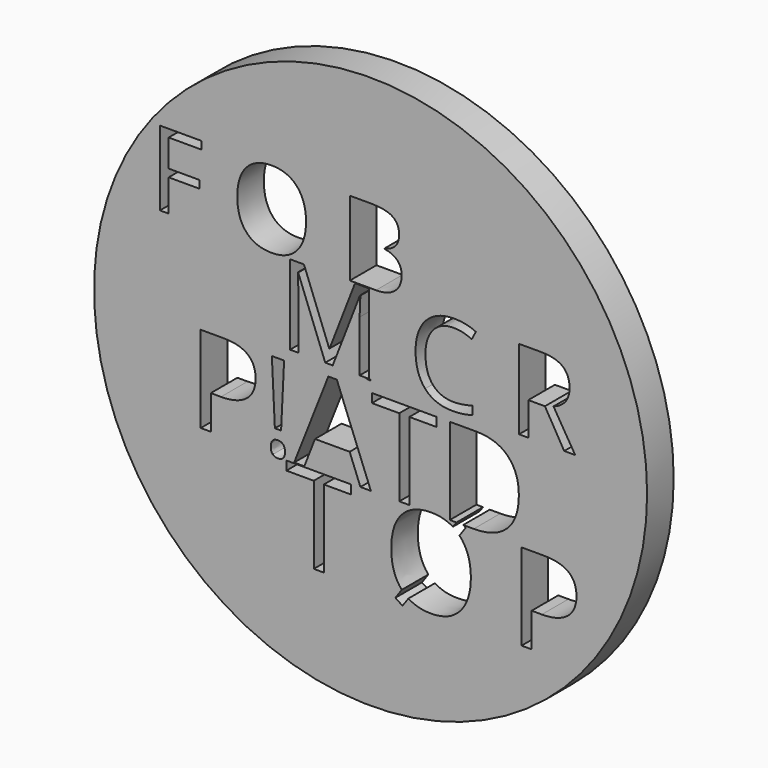
from build123d import *

# Parameters (mm, degrees)
F0_R     = 54.9675707309
F1_DEPTH = 6.604


with BuildPart() as f1:
    # F0 (on Front) → F1 (new body)
    with BuildSketch(Plane.XZ):
        Circle(F0_R)
        with BuildLine():
            add(Edge.make_bspline(
                [(-29.2989780873, -0.1467753015), (-22.8559186984, -0.1467753015), (-22.8559186984, -5.1559528988)],
                knots=[0, 0, 0, 1, 1, 1], degree=2))
            add(Edge.make_bspline(
                [(-22.8559186984, -5.1559528988), (-22.8559186984, -7.7678005716), (-24.6379213974, -9.1734563436)],
                knots=[0, 0, 0, 1, 1, 1], degree=2))
            add(Edge.make_bspline(
                [(-24.6379213974, -9.1734563436), (-26.4199240963, -10.5791121156), (-29.7355405225, -10.5791121156)],
                knots=[0, 0, 0, 1, 1, 1], degree=2))
            Line((-29.7355405225, -10.5791121156), (-31.7602869893, -10.5791121156))
            Line((-31.7602869893, -10.5791121156), (-31.7602869893, -17.3420663923))
            Line((-31.7602869893, -17.3420663923), (-33.7586891712, -17.3420663923))
            Line((-33.7586891712, -17.3420663923), (-33.7586891712, -0.1467753015))
            Line((-33.7586891712, -0.1467753015), (-29.2989780873, -0.1467753015))
        make_face(mode=Mode.SUBTRACT)
        with BuildLine():
            add(Edge.make_bspline(
                [(-19.4330433981, -17.3138403728), (-19.8338528753, -16.9431386498), (-19.8338528753, -16.0963580642)],
                knots=[0, 0, 0, 1, 1, 1], degree=2))
            add(Edge.make_bspline(
                [(-19.8338528753, -16.0963580642), (-19.8338528753, -14.4968836248), (-18.4225518994, -14.4968836248)],
                knots=[0, 0, 0, 1, 1, 1], degree=2))
            add(Edge.make_bspline(
                [(-18.4225518994, -14.4968836248), (-17.7413639617, -14.4968836248), (-17.3706622386, -14.9071017752)],
                knots=[0, 0, 0, 1, 1, 1], degree=2))
            add(Edge.make_bspline(
                [(-17.3706622386, -14.9071017752), (-16.9999605156, -15.3173199255), (-16.9999605156, -16.0963580642)],
                knots=[0, 0, 0, 1, 1, 1], degree=2))
            add(Edge.make_bspline(
                [(-16.9999605156, -16.0963580642), (-16.9999605156, -16.849051918), (-17.3763074425, -17.2667970069)],
                knots=[0, 0, 0, 1, 1, 1], degree=2))
            add(Edge.make_bspline(
                [(-17.3763074425, -17.2667970069), (-17.7526543695, -17.6845420958), (-18.4225518994, -17.6845420958)],
                knots=[0, 0, 0, 1, 1, 1], degree=2))
            add(Edge.make_bspline(
                [(-18.4225518994, -17.6845420958), (-19.032233921, -17.6845420958), (-19.4330433981, -17.3138403728)],
                knots=[0, 0, 0, 1, 1, 1], degree=2))
        make_face(mode=Mode.SUBTRACT)
        Polygon((-9.2930279934, -19.2651998085), (-9.2930279934, -34.6841383725), (-11.2914308193, -34.6841383725), (-11.2914308193, -19.2651998085), (-16.7371726065, -19.2651998085), (-16.7371726065, -17.4888417411), (-3.8472862062, -17.4888417411), (-3.8472862062, -19.2651998085), align=None, mode=Mode.SUBTRACT)
        Polygon((-17.1881339791, -0.1467753015), (-17.7865255929, -12.6038585824), (-19.0209435132, -12.6038585824), (-19.6230985962, -0.1467753015), align=None, mode=Mode.SUBTRACT)
        Polygon((0.0523187429, -17.3420663923), (-2.0175893551, -17.3420663923), (-4.1590033692, -11.8737455442), (-11.0499156011, -11.8737455442), (-13.1649853304, -17.3420663923), (-15.1897317972, -17.3420663923), (-8.3929062971, -0.0752693854), (-6.7106355337, -0.0752693854), align=None, mode=Mode.SUBTRACT)
        with BuildLine():
            add(Edge.make_bspline(
                [(27.2452659473, -2.3691039049), (29.4675945507, -4.5914325084), (29.4675945507, -8.5807099337)],
                knots=[0, 0, 0, 1, 1, 1], degree=2))
            add(Edge.make_bspline(
                [(29.4675945507, -8.5807099337), (29.4675945507, -12.8371936771), (27.1568244195, -15.0896300347)],
                knots=[0, 0, 0, 1, 1, 1], degree=2))
            add(Edge.make_bspline(
                [(27.1568244195, -15.0896300347), (24.8460542882, -17.3420663923), (20.5067742208, -17.3420663923)],
                knots=[0, 0, 0, 1, 1, 1], degree=2))
            Line((20.5067742208, -17.3420663923), (18.4117599585, -17.3420663923))
            Line((18.4117599585, -17.3420663923), (18.9141832679, -17.6770152652))
            Line((18.9141832679, -17.6770152652), (17.6684745384, -19.4195020983))
            add(Edge.make_bspline(
                [(17.6684745384, -19.4195020983), (19.9265568275, -21.7942519723), (19.9265568275, -26.0620274987)],
                knots=[0, 0, 0, 1, 1, 1], degree=2))
            add(Edge.make_bspline(
                [(19.9265568275, -26.0620274987), (19.9265568275, -30.1905546172), (17.8378307101, -32.5558958151)],
                knots=[0, 0, 0, 1, 1, 1], degree=2))
            add(Edge.make_bspline(
                [(17.8378307101, -32.5558958151), (15.7491045926, -34.9212370129), (12.0345592271, -34.9212370129)],
                knots=[0, 0, 0, 1, 1, 1], degree=2))
            add(Edge.make_bspline(
                [(12.0345592271, -34.9212370129), (9.2721718934, -34.9212370129), (7.5296850603, -33.7432707521)],
                knots=[0, 0, 0, 1, 1, 1], degree=2))
            Line((7.5296850603, -33.7432707521), (6.3404283881, -35.4029612346))
            Line((6.3404283881, -35.4029612346), (4.9291269574, -34.4733840256))
            Line((4.9291269574, -34.4733840256), (6.2011799803, -32.6593912533))
            add(Edge.make_bspline(
                [(6.2011799803, -32.6593912533), (4.1086903924, -30.3335664956), (4.1086903924, -26.0394466758)],
                knots=[0, 0, 0, 1, 1, 1], degree=2))
            add(Edge.make_bspline(
                [(4.1086903924, -26.0394466758), (4.1086903924, -21.8394136181), (6.1785991574, -19.5286427422)],
                knots=[0, 0, 0, 1, 1, 1], degree=2))
            add(Edge.make_bspline(
                [(6.1785991574, -19.5286427422), (8.2485079224, -17.2178718664), (12.05714005, -17.2178718664)],
                knots=[0, 0, 0, 1, 1, 1], degree=2))
            add(Edge.make_bspline(
                [(12.05714005, -17.2178718664), (14.5146862746, -17.2178718664), (16.3625502812, -18.3243321881)],
                knots=[0, 0, 0, 1, 1, 1], degree=2))
            Line((16.3625502812, -18.3243321881), (17.0678264331, -17.3420663923))
            Line((17.0678264331, -17.3420663923), (15.7422221261, -17.3420663923))
            Line((15.7422221261, -17.3420663923), (15.7422221261, -0.1467753015))
            Line((15.7422221261, -0.1467753015), (21.0110791029, -0.1467753015))
            add(Edge.make_bspline(
                [(21.0110791029, -0.1467753015), (25.0229373438, -0.1467753015), (27.2452659473, -2.3691039049)],
                knots=[0, 0, 0, 1, 1, 1], degree=2))
        make_face(mode=Mode.SUBTRACT)
        Polygon((7.7072152364, -1.9231327965), (7.7072152364, -17.3420663923), (5.7088130545, -17.3420663923), (5.7088130545, -1.9231327965), (0.263073022, -1.9231327965), (0.263073022, -0.1467753015), (13.1529552689, -0.1467753015), (13.1529552689, -1.9231327965), align=None, mode=Mode.SUBTRACT)
        with BuildLine():
            add(Edge.make_bspline(
                [(34.4761337102, -17.4888417411), (40.9191951751, -17.4888417411), (40.9191951751, -22.4980209524)],
                knots=[0, 0, 0, 1, 1, 1], degree=2))
            add(Edge.make_bspline(
                [(40.9191951751, -22.4980209524), (40.9191951751, -25.1098694668), (39.1371919019, -26.5155256917)],
                knots=[0, 0, 0, 1, 1, 1], degree=2))
            add(Edge.make_bspline(
                [(39.1371919019, -26.5155256917), (37.3551886288, -27.9211819167), (34.0395711343, -27.9211819167)],
                knots=[0, 0, 0, 1, 1, 1], degree=2))
            Line((34.0395711343, -27.9211819167), (32.0148240151, -27.9211819167))
            Line((32.0148240151, -27.9211819167), (32.0148240151, -34.6841383725))
            Line((32.0148240151, -34.6841383725), (30.0164211892, -34.6841383725))
            Line((30.0164211892, -34.6841383725), (30.0164211892, -17.4888417411))
            Line((30.0164211892, -17.4888417411), (34.4761337102, -17.4888417411))
        make_face(mode=Mode.SUBTRACT)
        Polygon((-40.1363584681, 24.4450492574), (-40.1363584681, 18.0972733143), (-41.8622514665, 18.0972733143), (-41.8622514665, 32.9477537465), (-33.5838155591, 32.9477537465), (-33.5838155591, 31.4136266369), (-40.1363584681, 31.4136266369), (-40.1363584681, 25.9791763671), (-33.9803484137, 25.9791763671), (-33.9803484137, 24.4450492574), align=None, mode=Mode.SUBTRACT)
        with BuildLine():
            add(Edge.make_bspline(
                [(-0.7163069193, 1.8889202715), (-0.7219963467, 1.8941823241), (-0.7219963467, 1.9062022411)],
                knots=[0, 0, 0, 1, 1, 1], degree=2))
            add(Edge.make_bspline(
                [(-0.7219963467, 1.9062022411), (-0.7219963467, 1.9289065287), (-0.7019631517, 1.9289065287)],
                knots=[0, 0, 0, 1, 1, 1], degree=2))
            add(Edge.make_bspline(
                [(-0.7019631517, 1.9289065287), (-0.6922937963, 1.9289065287), (-0.6870317438, 1.9230835467)],
                knots=[0, 0, 0, 1, 1, 1], degree=2))
            add(Edge.make_bspline(
                [(-0.6870317438, 1.9230835467), (-0.6817696912, 1.9172605647), (-0.6817696912, 1.9062022411)],
                knots=[0, 0, 0, 1, 1, 1], degree=2))
            add(Edge.make_bspline(
                [(-0.6817696912, 1.9062022411), (-0.6817696912, 1.8955178704), (-0.6871118765, 1.8895880447)],
                knots=[0, 0, 0, 1, 1, 1], degree=2))
            add(Edge.make_bspline(
                [(-0.6871118765, 1.8895880447), (-0.6924540619, 1.883658219), (-0.7019631517, 1.883658219)],
                knots=[0, 0, 0, 1, 1, 1], degree=2))
            add(Edge.make_bspline(
                [(-0.7019631517, 1.883658219), (-0.710617492, 1.883658219), (-0.7163069193, 1.8889202715)],
                knots=[0, 0, 0, 1, 1, 1], degree=2))
        make_face(mode=Mode.SUBTRACT)
        with BuildLine():
            add(Edge.make_bspline(
                [(-0.8563523076, 2.1326040552), (-0.7648940949, 2.1326040552), (-0.7648940949, 2.0614995685)],
                knots=[0, 0, 0, 1, 1, 1], degree=2))
            add(Edge.make_bspline(
                [(-0.7648940949, 2.0614995685), (-0.7648940949, 2.0244248023), (-0.7901893424, 2.0044717401)],
                knots=[0, 0, 0, 1, 1, 1], degree=2))
            add(Edge.make_bspline(
                [(-0.7901893424, 2.0044717401), (-0.8154845899, 1.9845186779), (-0.8625492426, 1.9845186779)],
                knots=[0, 0, 0, 1, 1, 1], degree=2))
            Line((-0.8625492426, 1.9845186779), (-0.8912901997, 1.9845186779))
            Line((-0.8912901997, 1.9845186779), (-0.8912901997, 1.8885196076))
            Line((-0.8912901997, 1.8885196076), (-0.9196572037, 1.8885196076))
            Line((-0.9196572037, 1.8885196076), (-0.9196572037, 2.1326040552))
            Line((-0.9196572037, 2.1326040552), (-0.8563523076, 2.1326040552))
        make_face(mode=Mode.SUBTRACT)
        Polygon((-0.6844407839, 2.1326040552), (-0.6929348585, 1.9557777209), (-0.7104572264, 1.9557777209), (-0.7190047229, 2.1326040552), align=None, mode=Mode.SUBTRACT)
        Polygon((-0.4397152741, 1.8885196076), (-0.4690972934, 1.8885196076), (-0.4994943279, 1.9661415604), (-0.5973097412, 1.9661415604), (-0.6273328227, 1.8885196076), (-0.6560737798, 1.8885196076), (-0.5595939128, 2.1336190704), (-0.5357143444, 2.1336190704), align=None, mode=Mode.SUBTRACT)
        Polygon((-0.3310552246, 2.1073889404), (-0.3310552246, 1.8885196076), (-0.3594222287, 1.8885196076), (-0.3594222287, 2.1073889404), (-0.4367236503, 2.1073889404), (-0.4367236503, 2.1326040552), (-0.253753803, 2.1326040552), (-0.253753803, 2.1073889404), align=None, mode=Mode.SUBTRACT)
        with BuildLine():
            add(Edge.make_bspline(
                [(-0.0537156734, 2.1010584508), (-0.0221700691, 2.0695128465), (-0.0221700691, 2.012885682)],
                knots=[0, 0, 0, 1, 1, 1], degree=2))
            add(Edge.make_bspline(
                [(-0.0221700691, 2.012885682), (-0.0221700691, 1.952465566), (-0.054971087, 1.9204925868)],
                knots=[0, 0, 0, 1, 1, 1], degree=2))
            add(Edge.make_bspline(
                [(-0.054971087, 1.9204925868), (-0.0877721049, 1.8885196076), (-0.1493675017, 1.8885196076)],
                knots=[0, 0, 0, 1, 1, 1], degree=2))
            Line((-0.1493675017, 1.8885196076), (-0.2169995679, 1.8885196076))
            Line((-0.2169995679, 1.8885196076), (-0.2169995679, 2.1326040552))
            Line((-0.2169995679, 2.1326040552), (-0.1422089734, 2.1326040552))
            add(Edge.make_bspline(
                [(-0.1422089734, 2.1326040552), (-0.0852612778, 2.1326040552), (-0.0537156734, 2.1010584508)],
                knots=[0, 0, 0, 1, 1, 1], degree=2))
        make_face(mode=Mode.SUBTRACT)
        with BuildLine():
            Line((-7.5280316655, 2.1346875074), (-9.0106676736, 2.1346875074))
            Line((-9.0106676736, 2.1346875074), (-14.3800270488, 16.1643039392))
            Line((-14.3800270488, 16.1643039392), (-14.4666296193, 16.1643039392))
            add(Edge.make_bspline(
                [(-14.4666296193, 16.1643039392), (-14.3142090952, 14.4980704815), (-14.3142090952, 12.2013703101)],
                knots=[0, 0, 0, 1, 1, 1], degree=2))
            Line((-14.3142090952, 12.2013703101), (-14.3142090952, 2.1346875074))
            Line((-14.3142090952, 2.1346875074), (-16.0150835811, 2.1346875074))
            Line((-16.0150835811, 2.1346875074), (-16.0150835811, 17.9621733042))
            Line((-16.0150835811, 17.9621733042), (-13.2438013229, 17.9621733042))
            Line((-13.2438013229, 17.9621733042), (-8.2312445385, 4.9059697656))
            Line((-8.2312445385, 4.9059697656), (-8.144641968, 4.9059697656))
            Line((-8.144641968, 4.9059697656), (-3.0905159497, 17.9621733042))
            Line((-3.0905159497, 17.9621733042), (-0.3400183085, 17.9621733042))
            Line((-0.3400183085, 17.9621733042), (-0.3400183085, 2.1346875074))
            Line((-0.3400183085, 2.1346875074), (-2.1794569074, 2.1346875074))
            Line((-2.1794569074, 2.1346875074), (-2.1794569074, 12.3330062174))
            add(Edge.make_bspline(
                [(-2.1794569074, 12.3330062174), (-2.1794569074, 14.0858422456), (-2.0270363832, 16.1435193223)],
                knots=[0, 0, 0, 1, 1, 1], degree=2))
            Line((-2.0270363832, 16.1435193223), (-2.1136389537, 16.1435193223))
            Line((-2.1136389537, 16.1435193223), (-7.5280316655, 2.1346875074))
        make_face(mode=Mode.SUBTRACT)
        with BuildLine():
            add(Edge.make_bspline(
                [(-14.6282450008, 31.1503548236), (-12.8308460778, 29.118936511), (-12.8308460778, 25.5436402809)],
                knots=[0, 0, 0, 1, 1, 1], degree=2))
            add(Edge.make_bspline(
                [(-12.8308460778, 25.5436402809), (-12.8308460778, 21.9780948586), (-14.6347455394, 19.9353006035)],
                knots=[0, 0, 0, 1, 1, 1], degree=2))
            add(Edge.make_bspline(
                [(-14.6347455394, 19.9353006035), (-16.4386450009, 17.8925063484), (-19.6466608002, 17.8925063484)],
                knots=[0, 0, 0, 1, 1, 1], degree=2))
            add(Edge.make_bspline(
                [(-19.6466608002, 17.8925063484), (-22.926182524, 17.8925063484), (-24.7089552351, 19.8995476412)],
                knots=[0, 0, 0, 1, 1, 1], degree=2))
            add(Edge.make_bspline(
                [(-24.7089552351, 19.8995476412), (-26.4917279462, 21.906588934), (-26.4917279462, 25.5631418967)],
                knots=[0, 0, 0, 1, 1, 1], degree=2))
            add(Edge.make_bspline(
                [(-26.4917279462, 25.5631418967), (-26.4917279462, 29.1904424356), (-24.7040798312, 31.1861077859)],
                knots=[0, 0, 0, 1, 1, 1], degree=2))
            add(Edge.make_bspline(
                [(-24.7040798312, 31.1861077859), (-22.9164317161, 33.1817731361), (-19.6271591844, 33.1817731361)],
                knots=[0, 0, 0, 1, 1, 1], degree=2))
            add(Edge.make_bspline(
                [(-19.6271591844, 33.1817731361), (-16.4256439237, 33.1817731361), (-14.6282450008, 31.1503548236)],
                knots=[0, 0, 0, 1, 1, 1], degree=2))
        make_face(mode=Mode.SUBTRACT)
        with BuildLine():
            add(Edge.make_bspline(
                [(20.1328293734, 15.700114161), (18.3349600085, 16.5418911469), (16.5370906435, 16.5418911469)],
                knots=[0, 0, 0, 1, 1, 1], degree=2))
            add(Edge.make_bspline(
                [(16.5370906435, 16.5418911469), (13.928621218, 16.5418911469), (12.4182723874, 14.8046435813)],
                knots=[0, 0, 0, 1, 1, 1], degree=2))
            add(Edge.make_bspline(
                [(12.4182723874, 14.8046435813), (10.9079235567, 13.0673960158), (10.9079235567, 10.0466983544)],
                knots=[0, 0, 0, 1, 1, 1], degree=2))
            add(Edge.make_bspline(
                [(10.9079235567, 10.0466983544), (10.9079235567, 6.9428622253), (12.3645787936, 5.2471838936)],
                knots=[0, 0, 0, 1, 1, 1], degree=2))
            add(Edge.make_bspline(
                [(12.3645787936, 5.2471838936), (13.8212340305, 3.5515055619), (16.5163060266, 3.5515055619)],
                knots=[0, 0, 0, 1, 1, 1], degree=2))
            add(Edge.make_bspline(
                [(16.5163060266, 3.5515055619), (18.1721471758, 3.5515055619), (20.2956422061, 4.1473312474)],
                knots=[0, 0, 0, 1, 1, 1], degree=2))
            Line((20.2956422061, 4.1473312474), (20.2956422061, 2.5365234349))
            add(Edge.make_bspline(
                [(20.2956422061, 2.5365234349), (18.6501933653, 1.9164490296), (16.2357136979, 1.9164490296)],
                knots=[0, 0, 0, 1, 1, 1], degree=2))
            add(Edge.make_bspline(
                [(16.2357136979, 1.9164490296), (12.7404339499, 1.9164490296), (10.8403735516, 4.0399440599)],
                knots=[0, 0, 0, 1, 1, 1], degree=2))
            add(Edge.make_bspline(
                [(10.8403735516, 4.0399440599), (8.9403131534, 6.1634390902), (8.9403131534, 10.0709470742)],
                knots=[0, 0, 0, 1, 1, 1], degree=2))
            add(Edge.make_bspline(
                [(8.9403131534, 10.0709470742), (8.9403131534, 12.516603667), (9.8548362986, 14.3560422658)],
                knots=[0, 0, 0, 1, 1, 1], degree=2))
            add(Edge.make_bspline(
                [(9.8548362986, 14.3560422658), (10.7693594438, 16.1954808646), (12.4962147009, 17.1914104261)],
                knots=[0, 0, 0, 1, 1, 1], degree=2))
            add(Edge.make_bspline(
                [(12.4962147009, 17.1914104261), (14.223069958, 18.1873399877), (16.5613393633, 18.1873399877)],
                knots=[0, 0, 0, 1, 1, 1], degree=2))
            add(Edge.make_bspline(
                [(16.5613393633, 18.1873399877), (19.0485651899, 18.1873399877), (20.9122525085, 17.2797450481)],
                knots=[0, 0, 0, 1, 1, 1], degree=2))
            Line((20.9122525085, 17.2797450481), (20.1328293734, 15.700114161))
        make_face(mode=Mode.SUBTRACT)
        with BuildLine():
            Line((-4.1168740842, 18.0972733143), (-4.1168740842, 32.9477537465))
            Line((-4.1168740842, 32.9477537465), (0.0792235823, 32.9477537465))
            add(Edge.make_bspline(
                [(0.0792235823, 32.9477537465), (3.0337183761, 32.9477537465), (4.3549528466, 32.0636804969)],
                knots=[0, 0, 0, 1, 1, 1], degree=2))
            add(Edge.make_bspline(
                [(4.3549528466, 32.0636804969), (5.6761873171, 31.1796072473), (5.6761873171, 29.2716991681)],
                knots=[0, 0, 0, 1, 1, 1], degree=2))
            add(Edge.make_bspline(
                [(5.6761873171, 29.2716991681), (5.6761873171, 27.9488395629), (4.9400013206, 27.0907684677)],
                knots=[0, 0, 0, 1, 1, 1], degree=2))
            add(Edge.make_bspline(
                [(4.9400013206, 27.0907684677), (4.2038153241, 26.2326973725), (2.7899481786, 25.9791763671)],
                knots=[0, 0, 0, 1, 1, 1], degree=2))
            Line((2.7899481786, 25.9791763671), (2.7899481786, 25.8784180188))
            add(Edge.make_bspline(
                [(2.7899481786, 25.8784180188), (6.17347852, 25.2998700833), (6.17347852, 22.3226234044)],
                knots=[0, 0, 0, 1, 1, 1], degree=2))
            add(Edge.make_bspline(
                [(6.17347852, 22.3226234044), (6.17347852, 20.3334585928), (4.8278670298, 19.2153659535)],
                knots=[0, 0, 0, 1, 1, 1], degree=2))
            add(Edge.make_bspline(
                [(4.8278670298, 19.2153659535), (3.4822555395, 18.0972733143), (1.0640551802, 18.0972733143)],
                knots=[0, 0, 0, 1, 1, 1], degree=2))
            Line((1.0640551802, 18.0972733143), (-4.1168740842, 18.0972733143))
        make_face(mode=Mode.SUBTRACT)
        with BuildLine():
            Line((34.6543484061, 8.7164828705), (31.3495943132, 8.7164828705))
            Line((31.3495943132, 8.7164828705), (31.3495943132, 2.1346875074))
            Line((31.3495943132, 2.1346875074), (29.5101557144, 2.1346875074))
            Line((29.5101557144, 2.1346875074), (29.5101557144, 17.9621733042))
            Line((29.5101557144, 17.9621733042), (33.8506765512, 17.9621733042))
            add(Edge.make_bspline(
                [(33.8506765512, 17.9621733042), (36.7639870251, 17.9621733042), (38.1548243084, 16.8467321953)],
                knots=[0, 0, 0, 1, 1, 1], degree=2))
            add(Edge.make_bspline(
                [(38.1548243084, 16.8467321953), (39.5456615917, 15.7312910864), (39.5456615917, 13.4900165601)],
                knots=[0, 0, 0, 1, 1, 1], degree=2))
            add(Edge.make_bspline(
                [(39.5456615917, 13.4900165601), (39.5456615917, 10.3515394028), (36.3621510976, 9.2464906024)],
                knots=[0, 0, 0, 1, 1, 1], degree=2))
            Line((36.3621510976, 9.2464906024), (40.6611027006, 2.1346875074))
            Line((40.6611027006, 2.1346875074), (38.4856461279, 2.1346875074))
            Line((38.4856461279, 2.1346875074), (34.6543484061, 8.7164828705))
        make_face(mode=Mode.SUBTRACT)
    extrude(amount=F1_DEPTH)


solid = f1.part
